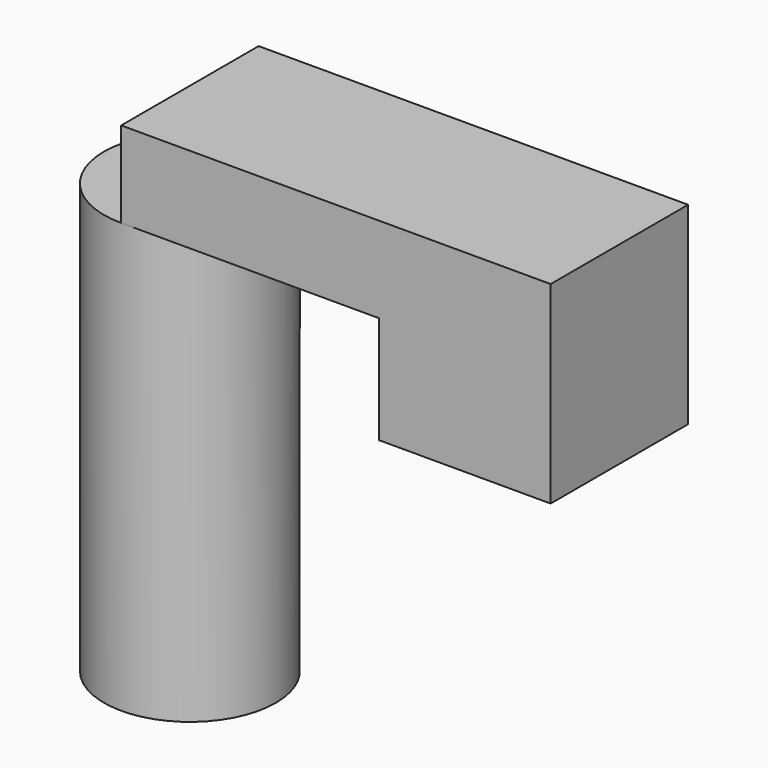
from build123d import *

# Parameters (mm, degrees)
F0_R     = 5.08
F1_DEPTH = 25.4
F2_W     = 25.4
F2_H     = 10.16
F3_DEPTH = 5.08
F4_W     = 10.16
F4_H     = 10.16
F5_DEPTH = 6.35


with BuildPart() as f1:
    # F0 (on Top) → F1 (new body)
    with BuildSketch(Plane.XY):
        Circle(F0_R)
    extrude(amount=F1_DEPTH)

    # F2 (on face) → F3 (join)
    with BuildSketch(Plane.XY.offset(25.4)):
        with Locations((12.7, 0)):
            Rectangle(F2_W, F2_H)
    extrude(amount=F3_DEPTH)

    # F4 (on face) → F5 (join)
    with BuildSketch(Plane(origin=(0, 0, 25.4), x_dir=(1, 0, 0), z_dir=(0, 0, -1))):
        with Locations((20.32, 0)):
            Rectangle(F4_W, F4_H)
    extrude(amount=F5_DEPTH)


solid = f1.part
